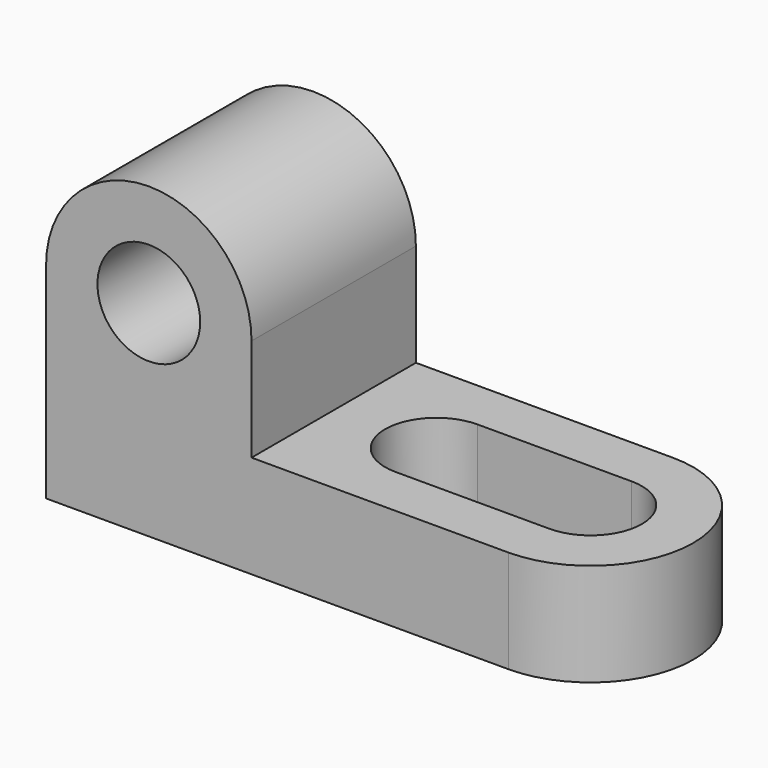
from build123d import *

# Parameters (mm, degrees)
F0_W     = 31.75
F0_H     = 12.7
F1_DEPTH = 25.4
F3_DEPTH = 12.7
F0_R     = 6.35
F4_DEPTH = 25.4
F5_DEPTH = 25.4


with BuildPart() as f1:
    # F0 (on Front) → F1 (new body)
    with BuildSketch(Plane.XZ):
        with Locations((41.275, 6.35)):
            Rectangle(F0_W, F0_H)
    extrude(amount=F1_DEPTH)

    # F2 (on face) → F3 (join)
    with BuildSketch(Plane.XY.offset(12.7)):
        with BuildLine():
            Line((57.15, -19.05), (57.15, -25.4))
            ThreePointArc((57.15, -25.4), (69.85, -12.7), (57.15, 0))
            Line((57.15, 0), (57.15, -6.35))
            ThreePointArc((57.15, -6.35), (63.5, -12.7), (57.15, -19.05))
        make_face()
    extrude(amount=-F3_DEPTH)

    # F0 (on Front) → F4 (join)
    with BuildSketch(Plane.XZ):
        with BuildLine():
            Line((0, 25.4), (0, 0))
            Line((0, 0), (25.4, 0))
            Line((25.4, 0), (25.4, 12.7))
            Line((25.4, 12.7), (25.4, 25.4))
            ThreePointArc((25.4, 25.4), (12.7, 38.1), (0, 25.4))
        make_face()
        with Locations((12.7, 25.4)):
            Circle(F0_R, mode=Mode.SUBTRACT)
        with Locations((41.275, 6.35)):
            Rectangle(F0_W, F0_H)
    extrude(amount=F4_DEPTH)

    # F2 (on face) → F5 (cut)
    with BuildSketch(Plane.XY.offset(12.7)):
        with BuildLine():
            ThreePointArc((57.15, -19.05), (63.5, -12.7), (57.15, -6.35))
            Line((57.15, -6.35), (38.1, -6.35))
            ThreePointArc((38.1, -6.35), (31.75, -12.7), (38.1, -19.05))
            Line((38.1, -19.05), (57.15, -19.05))
        make_face()
    extrude(amount=-F5_DEPTH, mode=Mode.SUBTRACT)


solid = f1.part
